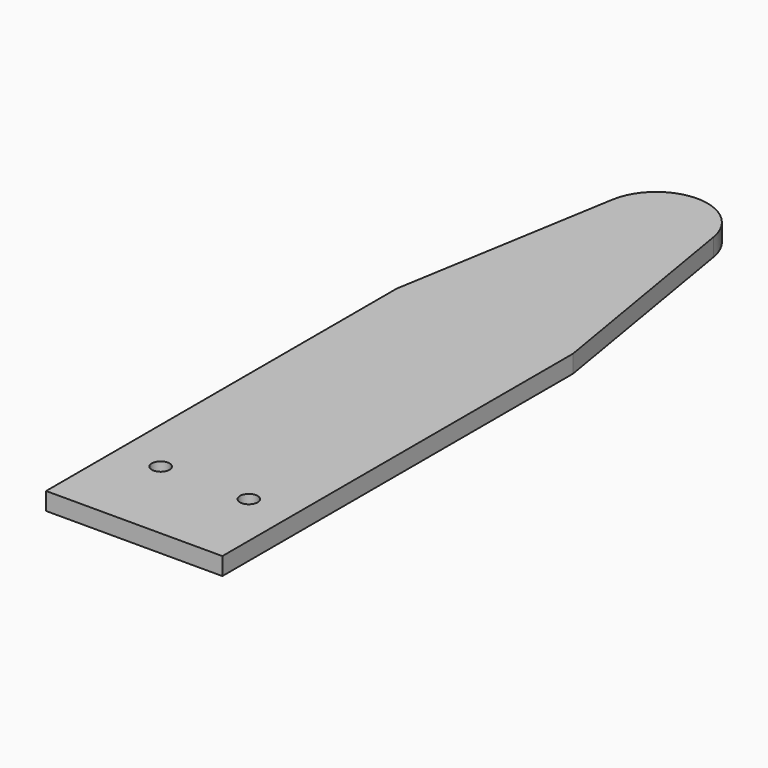
from build123d import *

# Parameters (mm, degrees)
F1_DEPTH = 2.54
F2_R     = 1.27
F3_DEPTH = 25.4
F4_DEPTH = 6.35


with BuildPart() as f1:
    # F0 (on Top) → F1 (new body)
    with BuildSketch(Plane.XY):
        with BuildLine():
            Line((-17.6407694817, 88.9), (-3.0585505724, 88.9))
            ThreePointArc((-3.0585505724, 88.9), (-10.349660027, 95.0651364676), (-17.6407694817, 88.9))
        make_face()
        Polygon((-10.349660027, 0), (2.350339973, 0), (2.350339973, 56.8060912192), (-3.0585505724, 88.9), (-17.6407694817, 88.9), (-23.049660027, 56.8060912192), (-23.049660027, 0), align=None)
    extrude(amount=F1_DEPTH)

    # F2 (on face) → F3 (cut)
    with BuildSketch(Plane.XY.offset(2.54)):
        with Locations((-16.699660027, 6.35)):
            Circle(F2_R)
        with BuildLine():
            ThreePointArc((-2.729660027, 6.35), (-3.999660027, 7.62), (-5.269660027, 6.35))
            ThreePointArc((-5.269660027, 6.35), (-3.999660027, 5.08), (-2.729660027, 6.35))
        make_face()
    extrude(amount=-F3_DEPTH, mode=Mode.SUBTRACT)

    # F4 (add): a face of the model
    f4_faces = [f1.faces().sort_by_distance(p)[0] for p in [
        (-10.349660027, 0, 1.27),
    ]]
    extrude(f4_faces, amount=F4_DEPTH)


solid = f1.part
